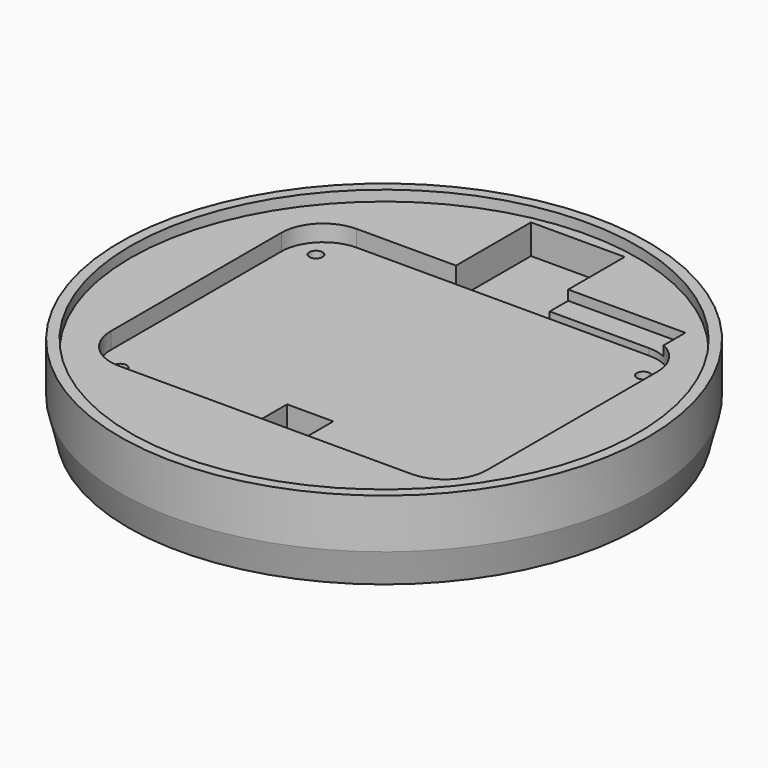
from build123d import *

# Parameters (mm, degrees)
SKETCH001_R     = 76.835
POCKET_DEPTH    = 3.175
SKETCH002_W     = 114
SKETCH002_H     = 90
POCKET001_DEPTH = 5
SKETCH003_W     = 14
SKETCH003_H     = 14
POCKET002_DEPTH = 16.826
SKETCH004_W     = 28.4
SKETCH004_H     = 28.4
POCKET003_DEPTH = 9
SKETCH005_W     = 35.5
SKETCH005_H     = 7
POCKET004_DEPTH = 3
FILLET_R        = 12.7
SKETCH006_R     = 2
POCKET005_DEPTH = 5


with BuildPart() as part:
    # Sketch → Revolution (revolve)
    with BuildSketch(Plane.XZ):
        Polygon((0, 5), (0, 20), (80, 20), (80, 5), (77.5, -5), (75.5, -5), (75.5, 0), (75.5, 5), align=None)
    revolve(axis=Axis((0, 0, 0), (0, 0, 1)))

    # Sketch001 (on Face1 of Revolution) → Pocket (cut)
    with BuildSketch(Plane(origin=(0, 0, 20), x_dir=(-1, 0, 0), z_dir=(0, 0, 1))):
        Circle(SKETCH001_R)
    extrude(amount=-POCKET_DEPTH, mode=Mode.SUBTRACT)

    # Sketch002 (on Face5 of Pocket) → Pocket001 (cut)
    with BuildSketch(Plane(origin=(0, 0, 16.825), x_dir=(-1, 0, 0), z_dir=(0, 0, 1))):
        Rectangle(SKETCH002_W, SKETCH002_H)
    extrude(amount=-POCKET001_DEPTH, mode=Mode.SUBTRACT)

    # Sketch003 (on Face12 of Pocket001) → Pocket002 (cut, through all)
    with BuildSketch(Plane(origin=(0, 0, 11.825), x_dir=(-1, 0, 0), z_dir=(0, 0, 1))):
        with Locations((0, 35)):
            Rectangle(SKETCH003_W, SKETCH003_H)
    extrude(amount=-POCKET002_DEPTH, mode=Mode.SUBTRACT)

    # Sketch004 (on Face5 of Pocket002) → Pocket003 (cut)
    with BuildSketch(Plane(origin=(0, 0, 16.825), x_dir=(-1, 0, 0), z_dir=(0, 0, 1))):
        with Locations((0, -59.2)):
            Rectangle(SKETCH004_W, SKETCH004_H)
    extrude(amount=-POCKET003_DEPTH, mode=Mode.SUBTRACT)

    # Sketch005 (on Face5 of Pocket003) → Pocket004 (cut)
    with BuildSketch(Plane(origin=(0, 0, 16.825), x_dir=(-1, 0, 0), z_dir=(0, 0, 1))):
        with Locations((-31.95, -48.5)):
            Rectangle(SKETCH005_W, SKETCH005_H)
    extrude(amount=-POCKET004_DEPTH, mode=Mode.SUBTRACT)

    # Fillet
    fillet_edges = [part.edges().sort_by_distance(p)[0] for p in [
        (57, -45, 14.325),
        (57, 45, 14.325),
        (-57, -45, 14.325),
        (-57, 45, 14.325),
    ]]
    fillet(fillet_edges, radius=FILLET_R)

    # Sketch006 (on Face17 of Fillet) → Pocket005 (cut)
    with BuildSketch(Plane(origin=(0, 0, 11.825), x_dir=(-1, 0, 0), z_dir=(0, 0, 1))):
        with Locations((-49.6, 38)):
            Circle(SKETCH006_R)
        with Locations((49.6, 38)):
            Circle(SKETCH006_R)
        with Locations((-49.6, -36.2)):
            Circle(SKETCH006_R)
        with Locations((49.6, -36.2)):
            Circle(SKETCH006_R)
    extrude(amount=-POCKET005_DEPTH, mode=Mode.SUBTRACT)


solid = part.part
